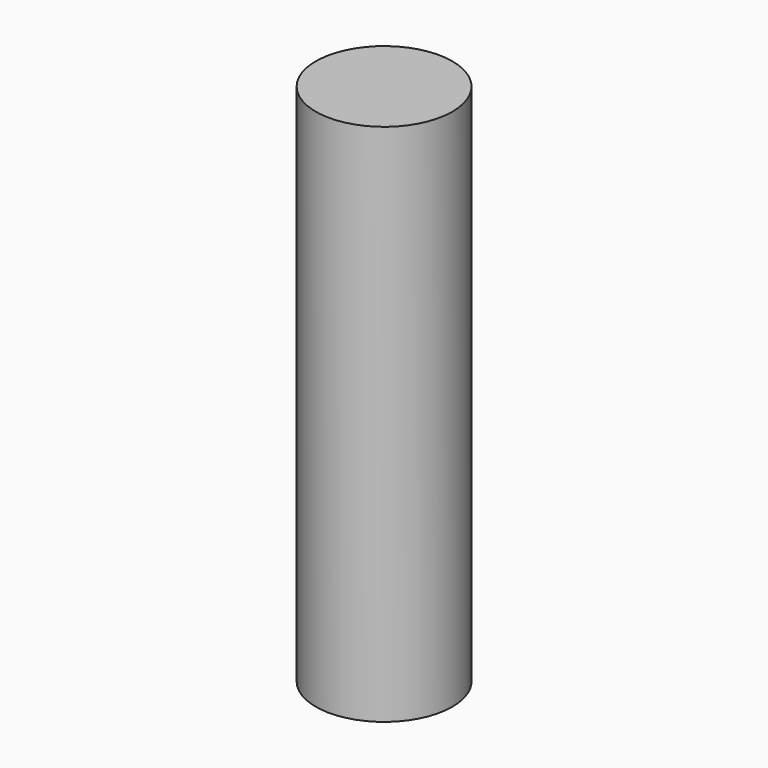
from build123d import *

# Parameters (mm, degrees)
CYLINDER_R     = 1.9558
CYLINDER_DEPTH = 15


with BuildPart() as part:
    # Cylinder → Cylinder (new body)
    with BuildSketch(Plane.XY.offset(-2.5)):
        Circle(CYLINDER_R)
    extrude(amount=CYLINDER_DEPTH)


solid = part.part
